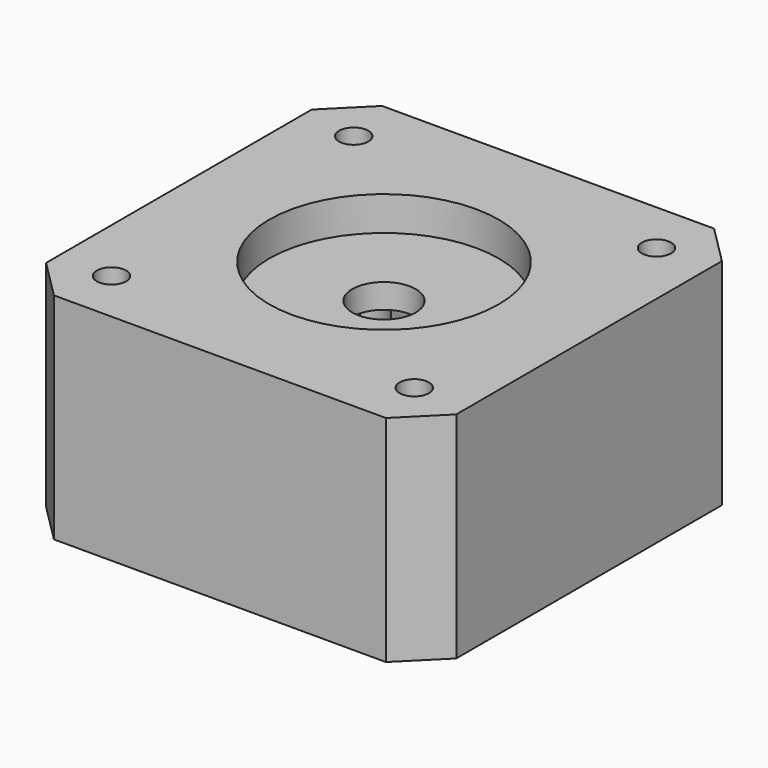
from build123d import *

# Parameters (mm, degrees)
F0_W      = 42
F0_H      = 42
F1_DEPTH  = 22
F2_SIZE   = 4
F3_R      = 11.75
F4_DEPTH  = 3.5
F5_R      = 3.25
F6_DEPTH  = 18.501
F8_START  = -4
F8_DEPTH  = 12
F9_R      = 1.5
F10_DEPTH = 22.001
F11_R     = 3
F12_DEPTH = 14


with BuildPart() as f1:
    # F0 (on Top) → F1 (new body)
    with BuildSketch(Plane.XY):
        Rectangle(F0_W, F0_H)
    extrude(amount=F1_DEPTH)

    # F2
    f2_edges = [f1.edges().sort_by_distance(p)[0] for p in [
        (-21, -21, 11),
        (21, -21, 11),
        (-21, 21, 11),
        (21, 21, 11),
    ]]
    chamfer(f2_edges, length=F2_SIZE)

    # F3 (on face) → F4 (cut)
    with BuildSketch(Plane.XY.offset(22)):
        Circle(F3_R)
    extrude(amount=-F4_DEPTH, mode=Mode.SUBTRACT)

    # F5 (on face) → F6 (cut, through all)
    with BuildSketch(Plane.XY.offset(18.5)):
        Circle(F5_R)
    extrude(amount=-F6_DEPTH, mode=Mode.SUBTRACT)

    # F7 (on face) → F8 (cut)
    with BuildSketch(Plane(origin=(0, 0, 0), x_dir=(1, 0, 0), z_dir=(0, 0, -1)).offset(F8_START)):
        with BuildLine():
            Line((-13.25, 0), (-13.25, -21))
            Line((-13.25, -21), (13.25, -21))
            Line((13.25, -21), (13.25, 0))
            ThreePointArc((13.25, 0), (0, 13.25), (-13.25, 0))
        make_face()
    extrude(amount=-F8_DEPTH, mode=Mode.SUBTRACT)

    # F9 (on face) → F10 (cut, through all)
    with BuildSketch(Plane.XY.offset(22)):
        with Locations((-15.5, 15.5)):
            Circle(F9_R)
        with Locations((15.5, 15.5)):
            Circle(F9_R)
        with Locations((-15.5, -15.5)):
            Circle(F9_R)
        with Locations((15.5, -15.5)):
            Circle(F9_R)
    extrude(amount=-F10_DEPTH, mode=Mode.SUBTRACT)

    # F11 (on face) → F12 (cut)
    with BuildSketch(Plane(origin=(0, 0, 0), x_dir=(1, 0, 0), z_dir=(0, 0, -1))):
        with Locations((-15.5, 15.5)):
            Circle(F11_R)
        with Locations((15.5, 15.5)):
            Circle(F11_R)
        with Locations((-15.5, -15.5)):
            Circle(F11_R)
        with Locations((15.5, -15.5)):
            Circle(F11_R)
    extrude(amount=-F12_DEPTH, mode=Mode.SUBTRACT)


solid = f1.part
